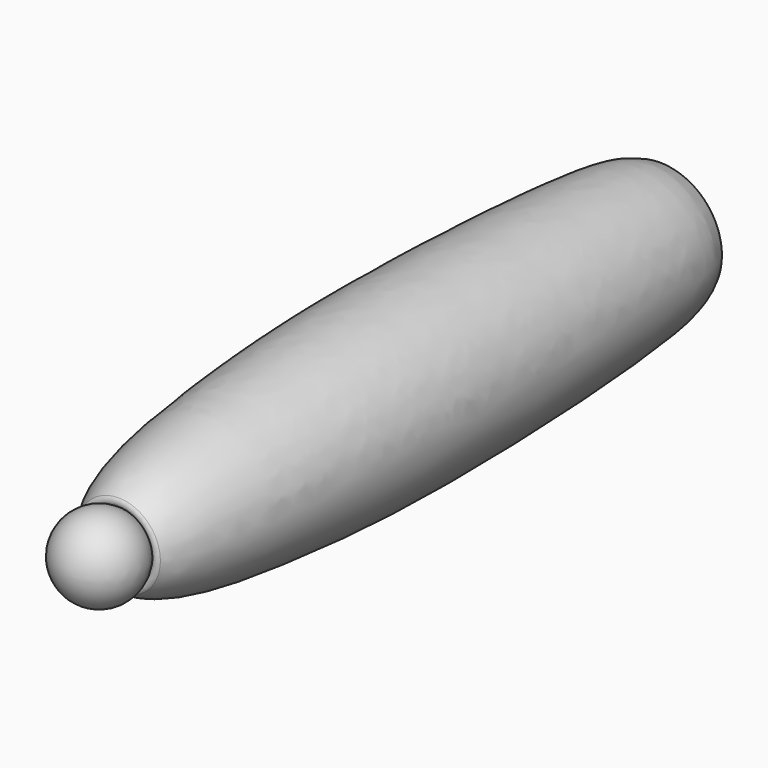
from build123d import *

# Parameters (mm, degrees)
FILLET104_R = 3
FILLET105_R = 3


with BuildPart() as part:
    # Sketch206 → Revolution106 (revolve)
    with BuildSketch(Plane.XY):
        with BuildLine():
            Line((0, 0), (0, -428.766235))
            add(Edge.make_bspline(
                [(0, 0), (37.127547, 3.058324), (47.193909, -33.616211), (53.813536, -199.691265), (50.270172, -320.959738), (33.178696, -440.435144), (0, -428.766235)],
                knots=[0, 0, 0, 0, 0.25, 0.5, 0.75, 1, 1, 1, 1], degree=3))
        make_face()
    revolve(axis=Axis((0, 0, 0), (0, 1, 0)))

    # Sketch207 → Groove101 (revolve, cut)
    with BuildSketch(Plane.XY):
        with BuildLine():
            Line((0, 35), (0, -35))
            ThreePointArc((0, -35), (35, 0), (0, 35))
        make_face()
    revolve(axis=Axis((0, 0, 0), (0, 1, 0)), mode=Mode.SUBTRACT)

    # Fillet104
    fillet104_edges = [part.edges().sort_by_distance(p)[0] for p in [
        (-33.812554, -9.039423, 0),
    ]]
    fillet(fillet104_edges, radius=FILLET104_R)

    # Sketch208 → Groove102 (revolve, cut)
    with BuildSketch(Plane.XY):
        with BuildLine():
            Line((0, -410), (0, -460))
            ThreePointArc((0, -460), (25, -435), (0, -410))
        make_face()
    revolve(axis=Axis((0, 0, 0), (0, 1, 0)), mode=Mode.SUBTRACT)

    # Fillet105
    fillet105_edges = [part.edges().sort_by_distance(p)[0] for p in [
        (-22.332538, -423.763553, 0),
    ]]
    fillet(fillet105_edges, radius=FILLET105_R)

    # Sketch208 → Revolution107 (revolve)
    with BuildSketch(Plane.XY):
        with BuildLine():
            Line((0, -410), (0, -460))
            ThreePointArc((0, -460), (25, -435), (0, -410))
        make_face()
    revolve(axis=Axis((0, 0, 0), (0, 1, 0)))


with BuildPart() as part_1:
    # Body062 placement: moved
    add(part.part.moved(Location((-75, 497, 28.5))))


solid = part_1.part
